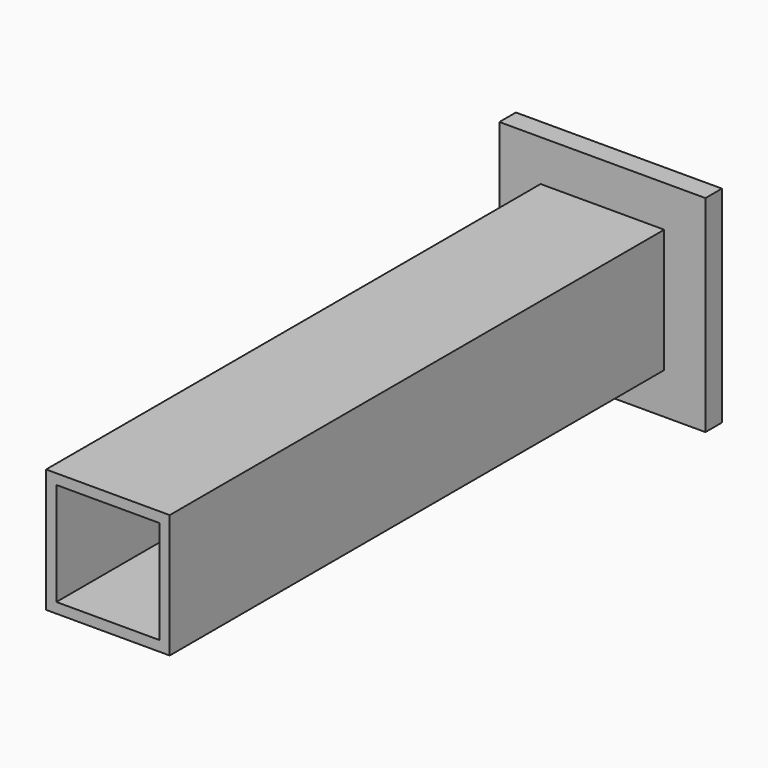
from build123d import *

# Parameters (mm, degrees)
F0_W     = 25.4
F0_H     = 25.4
F1_DEPTH = 2.54
F2_W     = 15.24
F2_H     = 15.24
F3_DEPTH = 2.541
F4_W     = 15.24
F4_H     = 15.24
F5_DEPTH = 76.2
F6_W     = 12.7
F6_H     = 12.7
F7_DEPTH = 73.66
F8_R     = 0.127
F9_DEPTH = 76.201


with BuildPart() as f1:
    # F0 (on Front) → F1 (new body)
    with BuildSketch(Plane.XZ):
        Rectangle(F0_W, F0_H)
    extrude(amount=F1_DEPTH)

    # F2 (on face) → F3 (cut, through all)
    with BuildSketch(Plane.XZ.offset(2.54)):
        Rectangle(F2_W, F2_H)
    extrude(amount=-F3_DEPTH, mode=Mode.SUBTRACT)


with BuildPart() as f5:
    # F4 (on face) → F5 (new body)
    with BuildSketch(Plane.XZ.offset(2.54)):
        Rectangle(F4_W, F4_H)
    extrude(amount=F5_DEPTH)

    # F6 (on face) → F7 (cut)
    with BuildSketch(Plane.XZ.offset(78.74)):
        Rectangle(F6_W, F6_H)
    extrude(amount=-F7_DEPTH, mode=Mode.SUBTRACT)

    # F8 (on face) → F9 (cut, through all)
    with BuildSketch(Plane(origin=(0, -2.54, 0), x_dir=(-1, 0, 0), z_dir=(0, 1, 0))):
        Circle(F8_R)
    extrude(amount=-F9_DEPTH, mode=Mode.SUBTRACT)


solid = Compound([f1.part, f5.part])
